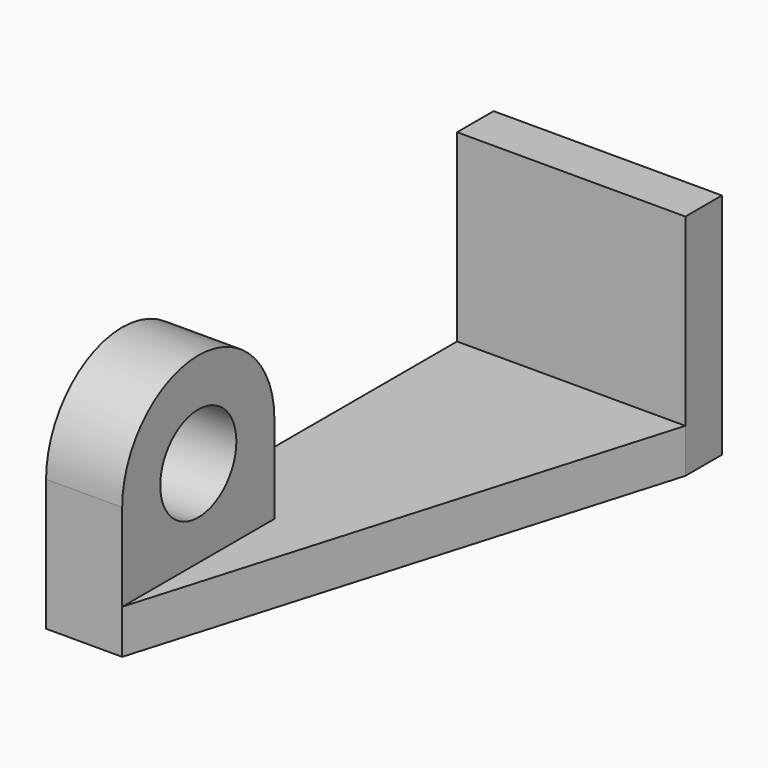
from build123d import *

# Parameters (mm, degrees)
F0_W      = 1524
F0_H      = 1524
F1_DEPTH  = 304.8
F2_W      = 1524
F2_H      = 294.3113446236
F3_DEPTH  = 3429
F6_DEPTH  = 84658.2
F4_W      = 508
F4_H      = 1270
F7_DEPTH  = 584.2
F9_DEPTH  = 508
F10_R     = 317.5
F11_DEPTH = 1270


with BuildPart() as f1:
    # F0 (on Front) → F1 (new body)
    with BuildSketch(Plane.XZ):
        with Locations((-762, 762)):
            Rectangle(F0_W, F0_H)
    extrude(amount=F1_DEPTH)

    # F2 (on face) → F3 (join)
    with BuildSketch(Plane.XZ.offset(304.8)):
        with Locations((-762, 147.1556723118)):
            Rectangle(F2_W, F2_H)
    extrude(amount=F3_DEPTH)

    # F5 (on face) → F6 (cut)
    with BuildSketch(Plane.XY.offset(294.3113446236)):
        Polygon((0, -304.8), (-1016, -3733.8), (0, -3733.8), align=None)
    extrude(amount=-F6_DEPTH, mode=Mode.SUBTRACT)

    # F4 (on face) → F7 (join)
    with BuildSketch(Plane.XY.offset(294.3113446236)):
        with Locations((-1270, -3098.8)):
            Rectangle(F4_W, F4_H)
    extrude(amount=F7_DEPTH)

    # F8 (on face) → F9 (join)
    with BuildSketch(Plane.YZ.offset(-1016)):
        with BuildLine():
            Line((-3733.8, 878.5113446236), (-2463.8, 878.5113446236))
            ThreePointArc((-2463.8, 878.5113446236), (-3098.8, 1513.5113446236), (-3733.8, 878.5113446236))
        make_face()
    extrude(amount=-F9_DEPTH)

    # F10 (on face) → F11 (cut)
    with BuildSketch(Plane.YZ.offset(-1016)):
        with Locations((-3098.8, 878.5113446236)):
            Circle(F10_R)
    extrude(amount=-F11_DEPTH, mode=Mode.SUBTRACT)


solid = f1.part
